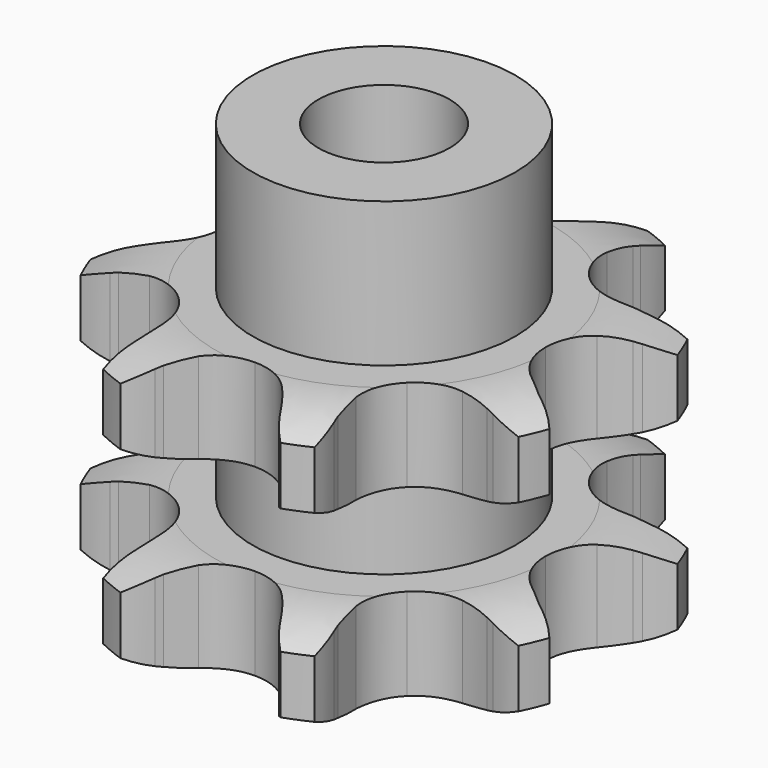
from build123d import *

# Parameters (mm, degrees)
PAD_DEPTH         = 21
SKETCH001_R       = 10
PAD001_DEPTH      = 32
SKETCH002_R       = 5
POCKET_DEPTH      = 0.001
POCKET_DEPTH_BACK = -32.001


with BuildPart() as part:
    # Sprocket → Pad (new body)
    with BuildSketch(Plane.XY):
        with BuildLine():
            ThreePointArc((-7.691496, 18.568914), (-6.037547, 17.419326), (-4.759071, 15.862856))
            Line((-4.759071, 15.862856), (-4.464, 15.381343))
            ThreePointArc((-4.464, 15.381343), (-3.86334, 14.499155), (-3.180891, 13.6786))
            ThreePointArc((-3.180891, 13.6786), (-1.7376, 12.644353), (0, 12.278975))
            ThreePointArc((0, 12.278975), (1.7376, 12.644353), (3.180891, 13.6786))
            ThreePointArc((3.180891, 13.6786), (3.86334, 14.499155), (4.464, 15.381343))
            Line((4.464, 15.381343), (4.759071, 15.862856))
            ThreePointArc((4.759071, 15.862856), (6.037547, 17.419326), (7.691496, 18.568914))
            ThreePointArc((7.691496, 18.568914), (8.048133, 16.586514), (7.851562, 14.581905))
            Line((7.851562, 14.581905), (7.719727, 14.032776))
            ThreePointArc((7.719727, 14.032776), (7.520658, 12.984245), (7.423001, 11.92146))
            ThreePointArc((7.423001, 11.92146), (7.712239, 10.169576), (8.682546, 8.682546))
            ThreePointArc((8.682546, 8.682546), (10.169576, 7.712239), (11.92146, 7.423001))
            Line((11.92146, 7.423001), (14.032776, 7.719727))
            ThreePointArc((14.032776, 7.719727), (14.306504, 7.78913), (14.581905, 7.851562))
            ThreePointArc((14.581905, 7.851562), (16.586514, 8.048133), (18.568914, 7.691496))
            ThreePointArc((18.568914, 7.691496), (17.419326, 6.037547), (15.862856, 4.759071))
            Line((15.862856, 4.759071), (15.381343, 4.464))
            ThreePointArc((15.381343, 4.464), (14.499155, 3.86334), (13.6786, 3.180891))
            ThreePointArc((13.6786, 3.180891), (12.644353, 1.7376), (12.278975, 0))
            ThreePointArc((12.278975, 0), (12.644353, -1.7376), (13.6786, -3.180891))
            Line((13.6786, -3.180891), (15.381343, -4.464))
            ThreePointArc((15.381343, -4.464), (15.623973, -4.608479), (15.862856, -4.759071))
            ThreePointArc((15.862856, -4.759071), (17.419326, -6.037547), (18.568914, -7.691496))
            ThreePointArc((18.568914, -7.691496), (16.586514, -8.048133), (14.581905, -7.851562))
            Line((14.581905, -7.851562), (14.032776, -7.719727))
            ThreePointArc((14.032776, -7.719727), (12.984245, -7.520658), (11.92146, -7.423001))
            ThreePointArc((11.92146, -7.423001), (10.169576, -7.712239), (8.682546, -8.682546))
            ThreePointArc((8.682546, -8.682546), (7.712239, -10.169576), (7.423001, -11.92146))
            Line((7.423001, -11.92146), (7.719727, -14.032776))
            ThreePointArc((7.719727, -14.032776), (7.78913, -14.306504), (7.851562, -14.581905))
            ThreePointArc((7.851562, -14.581905), (8.048133, -16.586514), (7.691496, -18.568914))
            ThreePointArc((7.691496, -18.568914), (6.037547, -17.419326), (4.759071, -15.862856))
            Line((4.759071, -15.862856), (4.464, -15.381343))
            ThreePointArc((4.464, -15.381343), (3.86334, -14.499155), (3.180891, -13.6786))
            ThreePointArc((3.180891, -13.6786), (1.7376, -12.644353), (0, -12.278975))
            ThreePointArc((0, -12.278975), (-1.7376, -12.644353), (-3.180891, -13.6786))
            Line((-3.180891, -13.6786), (-4.464, -15.381343))
            ThreePointArc((-4.464, -15.381343), (-4.608479, -15.623973), (-4.759071, -15.862856))
            ThreePointArc((-4.759071, -15.862856), (-6.037547, -17.419326), (-7.691496, -18.568914))
            ThreePointArc((-7.691496, -18.568914), (-8.048133, -16.586514), (-7.851562, -14.581905))
            Line((-7.851562, -14.581905), (-7.719727, -14.032776))
            ThreePointArc((-7.719727, -14.032776), (-7.520658, -12.984245), (-7.423001, -11.92146))
            ThreePointArc((-7.423001, -11.92146), (-7.712239, -10.169576), (-8.682546, -8.682546))
            ThreePointArc((-8.682546, -8.682546), (-10.169576, -7.712239), (-11.92146, -7.423001))
            Line((-11.92146, -7.423001), (-14.032776, -7.719727))
            ThreePointArc((-14.032776, -7.719727), (-14.306504, -7.78913), (-14.581905, -7.851562))
            ThreePointArc((-14.581905, -7.851562), (-16.586514, -8.048133), (-18.568914, -7.691496))
            ThreePointArc((-18.568914, -7.691496), (-17.419326, -6.037547), (-15.862856, -4.759071))
            Line((-15.862856, -4.759071), (-15.381343, -4.464))
            ThreePointArc((-15.381343, -4.464), (-14.499155, -3.86334), (-13.6786, -3.180891))
            ThreePointArc((-13.6786, -3.180891), (-12.644353, -1.7376), (-12.278975, 0))
            ThreePointArc((-12.278975, 0), (-12.644353, 1.7376), (-13.6786, 3.180891))
            Line((-13.6786, 3.180891), (-15.381343, 4.464))
            ThreePointArc((-15.381343, 4.464), (-15.623973, 4.608479), (-15.862856, 4.759071))
            ThreePointArc((-15.862856, 4.759071), (-17.419326, 6.037547), (-18.568914, 7.691496))
            ThreePointArc((-18.568914, 7.691496), (-16.586514, 8.048133), (-14.581905, 7.851562))
            Line((-14.581905, 7.851562), (-14.032776, 7.719727))
            ThreePointArc((-14.032776, 7.719727), (-12.984245, 7.520658), (-11.92146, 7.423001))
            ThreePointArc((-11.92146, 7.423001), (-10.169576, 7.712239), (-8.682546, 8.682546))
            ThreePointArc((-8.682546, 8.682546), (-7.712239, 10.169576), (-7.423001, 11.92146))
            Line((-7.423001, 11.92146), (-7.719727, 14.032776))
            ThreePointArc((-7.719727, 14.032776), (-7.78913, 14.306504), (-7.851562, 14.581905))
            ThreePointArc((-7.851562, 14.581905), (-8.048133, 16.586514), (-7.691496, 18.568914))
        make_face()
    extrude(amount=PAD_DEPTH)

    # Sketch → Groove (revolve, cut)
    with BuildSketch(Plane.XZ):
        with BuildLine():
            ThreePointArc((12.833431, 0), (15.74032, 0.329167), (18.5, 1.3))
            Line((18.5, 1.3), (18.5, 5.7))
            ThreePointArc((18.5, 5.7), (15.74032, 6.670833), (12.833431, 7))
            Line((10, 7), (12.833431, 7))
            Line((10, 14), (10, 7))
            Line((12.833431, 14), (10, 14))
            ThreePointArc((12.833431, 14), (15.74032, 14.329167), (18.5, 15.3))
            Line((18.5, 15.3), (18.5, 19.7))
            ThreePointArc((18.5, 19.7), (15.74032, 20.670833), (12.833431, 21))
            Line((12.833431, 21), (22.833431, 21))
            Line((22.833431, 21), (22.833431, 0))
            Line((12.833431, 0), (22.833431, 0))
        make_face()
    revolve(axis=Axis((0, 0, 0), (0, 0, 1)), mode=Mode.SUBTRACT)

    # Sketch001 → Pad001 (join)
    with BuildSketch(Plane.XY):
        Circle(SKETCH001_R)
    extrude(amount=PAD001_DEPTH)

    # Sketch002 → Pocket (cut, two sides)
    with BuildSketch(Plane.XY) as pocket_sk:
        Circle(SKETCH002_R)
    extrude(amount=-POCKET_DEPTH, mode=Mode.SUBTRACT)
    extrude(pocket_sk.sketch, amount=-POCKET_DEPTH_BACK, mode=Mode.SUBTRACT)


solid = part.part
